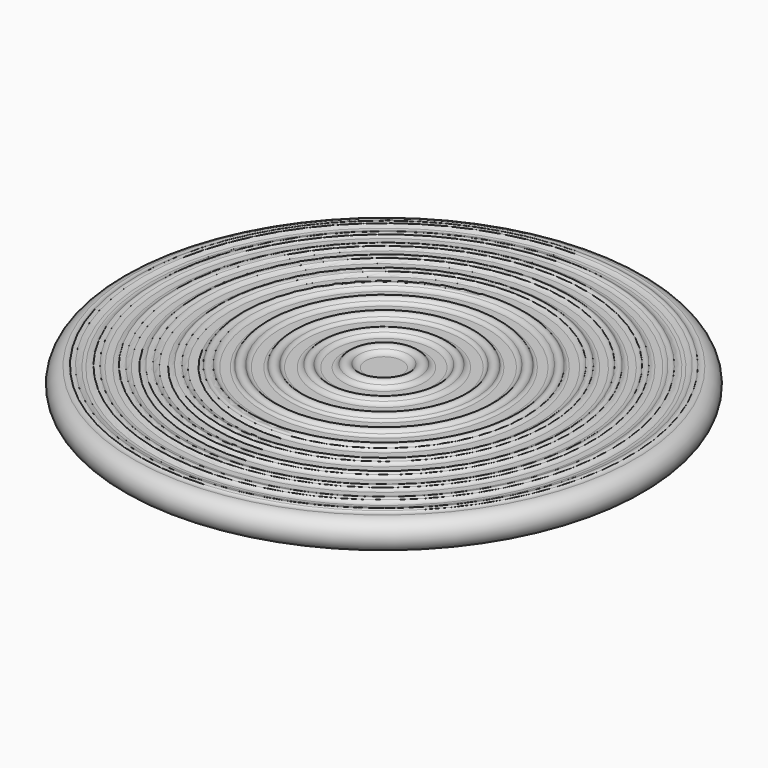
from build123d import *


with BuildPart() as f1:
    # F0 (on Front) → F1 (revolve)
    with BuildSketch(Plane.XZ):
        with BuildLine():
            Line((-200, 0), (0, 0))
            Line((0, 0), (0, 23.387438))
            Line((0, 23.387438), (-14.803701, 23.425616))
            ThreePointArc((-14.803701, 23.425616), (-17.763646, 24.160553), (-20.046517, 26.182904))
            ThreePointArc((-20.046517, 26.182904), (-24.160181, 28.253009), (-28.12695, 25.913712))
            ThreePointArc((-28.12695, 25.913712), (-29.959179, 24.124903), (-32.436691, 23.477728))
            Line((-32.436691, 23.477728), (-39.616655, 23.502417))
            ThreePointArc((-39.616655, 23.502417), (-41.971765, 24.094091), (-43.778788, 25.716216))
            ThreePointArc((-43.778788, 25.716216), (-46.992218, 27.42251), (-50.212555, 25.729289))
            ThreePointArc((-50.212555, 25.729289), (-52.013651, 24.127925), (-54.354641, 23.555139))
            Line((-54.354641, 23.555139), (-62.274429, 23.582372))
            ThreePointArc((-62.274429, 23.582372), (-64.067281, 24.093896), (-65.329765, 25.465796))
            ThreePointArc((-65.329765, 25.465796), (-69.123528, 27.717712), (-72.775327, 25.242205))
            ThreePointArc((-72.775327, 25.242205), (-73.769409, 24.063369), (-75.248024, 23.625702))
            Line((-75.248024, 23.625702), (-83.137083, 23.652829))
            ThreePointArc((-83.137083, 23.652829), (-85.116628, 24.190666), (-86.561885, 25.646378))
            ThreePointArc((-86.561885, 25.646378), (-90.166295, 27.636279), (-93.591093, 25.351058))
            ThreePointArc((-93.591093, 25.351058), (-94.679357, 24.109436), (-96.264398, 23.64728))
            Line((-96.264398, 23.64728), (-102.942512, 23.64728))
            ThreePointArc((-102.942512, 23.64728), (-105.245476, 24.209222), (-107.030787, 25.768736))
            ThreePointArc((-107.030787, 25.768736), (-110.174355, 27.30531), (-113.156048, 25.474301))
            ThreePointArc((-113.156048, 25.474301), (-114.45839, 24.159806), (-116.244998, 23.678121))
            Line((-116.244998, 23.678121), (-122.755002, 23.678121))
            ThreePointArc((-122.755002, 23.678121), (-124.920066, 24.171181), (-126.658126, 25.553121))
            ThreePointArc((-126.658126, 25.553121), (-129, 26.678121), (-131.341874, 25.553121))
            ThreePointArc((-131.341874, 25.553121), (-133.079934, 24.171181), (-135.244998, 23.678121))
            Line((-135.244998, 23.678121), (-140.755002, 23.678121))
            ThreePointArc((-140.755002, 23.678121), (-142.920066, 24.171181), (-144.658126, 25.553121))
            ThreePointArc((-144.658126, 25.553121), (-147, 26.678121), (-149.341874, 25.553121))
            ThreePointArc((-149.341874, 25.553121), (-151.079934, 24.171181), (-153.244998, 23.678121))
            Line((-153.244998, 23.678121), (-158.24708, 23.678121))
            ThreePointArc((-158.24708, 23.678121), (-160.199991, 24.07528), (-161.842655, 25.203665))
            ThreePointArc((-161.842655, 25.203665), (-163.976836, 26.118903), (-166.124895, 25.236731))
            ThreePointArc((-166.124895, 25.236731), (-167.846471, 24.083258), (-169.878758, 23.678121))
            Line((-169.878758, 23.678121), (-174.819658, 23.678121))
            ThreePointArc((-174.819658, 23.678121), (-176.52386, 23.991519), (-178.005069, 24.890708))
            ThreePointArc((-178.005069, 24.890708), (-180.028551, 25.64998), (-182.037214, 24.852332))
            ThreePointArc((-182.037214, 24.852332), (-184.239703, 23.53502), (-186.786347, 23.217417))
            Line((-186.786347, 23.217417), (-189.2982, 23.427394))
            ThreePointArc((-189.2982, 23.427394), (-191.395076, 23.879706), (-193.307042, 24.852259))
            ThreePointArc((-193.307042, 24.852259), (-195.038456, 25.375343), (-196.755892, 24.808046))
            ThreePointArc((-196.755892, 24.808046), (-198.868497, 23.901812), (-201.165877, 23.981839))
            Line((-201.165877, 23.981839), (-200, 23.678121))
            ThreePointArc((-200, 23.678121), (-211.83906, 11.83906), (-200, 0))
        make_face()
    revolve(axis=Axis((0, 0, 11.693719), (0, 0, 1)))


solid = f1.part
